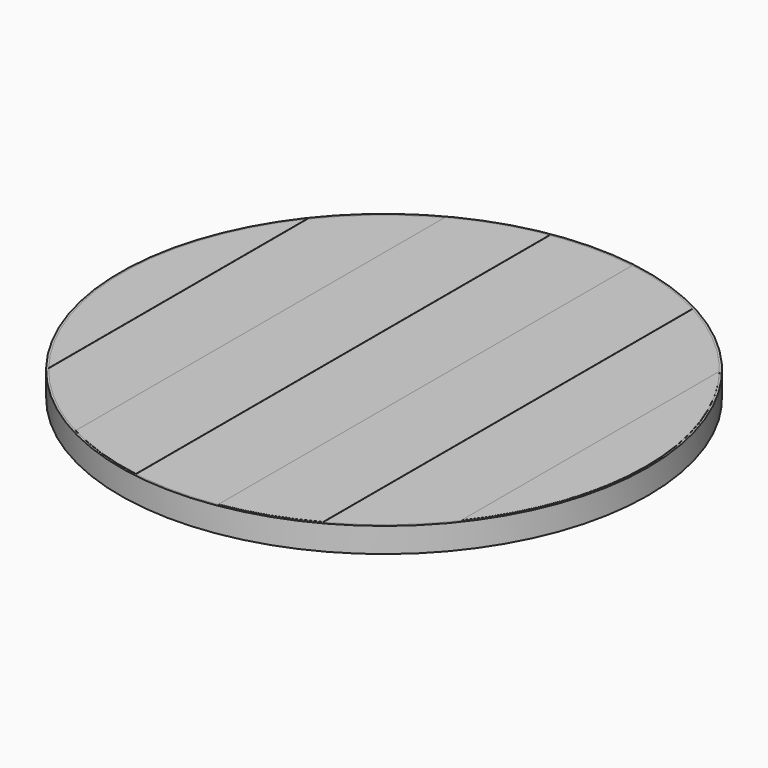
from build123d import *

# Parameters (mm, degrees)
F0_R     = 403.225
F1_DEPTH = 38.1
F0_R_2   = 406.4
F2_DEPTH = 38.1
F4_DEPTH = 0.3175


with BuildPart() as f1:
    # F0 (on Top) → F1 (new body)
    with BuildSketch(Plane.XY):
        Circle(F0_R)
    extrude(amount=F1_DEPTH)


with BuildPart() as f2:
    # F0 (on Top) → F2 (new body)
    with BuildSketch(Plane.XY):
        Circle(F0_R_2)
        Circle(F0_R, mode=Mode.SUBTRACT)
    extrude(amount=F2_DEPTH)


with BuildPart() as f4:
    # F3 (on face) → F4 (new body)
    with BuildSketch(Plane.XY.offset(38.1)):
        with BuildLine():
            ThreePointArc((-317.5, 248.564178), (-403.225, 0), (-317.5, -248.564178))
            Line((-317.5, -248.564178), (-317.5, 248.564178))
        make_face()
        with BuildLine():
            ThreePointArc((-190.5, -355.387325), (-128.790894, -382.10379), (-63.5, -398.193609))
            Line((-63.5, -398.193609), (-63.5, 398.193609))
            ThreePointArc((-63.5, 398.193609), (-128.790894, 382.10379), (-190.5, 355.387325))
            Line((-190.5, 355.387325), (-190.5, -355.387325))
        make_face()
        with BuildLine():
            Line((63.5, 398.193609), (63.5, -398.193609))
            ThreePointArc((63.5, -398.193609), (128.790894, -382.10379), (190.5, -355.387325))
            Line((190.5, -355.387325), (190.5, 355.387325))
            ThreePointArc((190.5, 355.387325), (128.790894, 382.10379), (63.5, 398.193609))
        make_face()
        with BuildLine():
            Line((317.5, 248.564178), (317.5, -248.564178))
            ThreePointArc((317.5, -248.564178), (381.191775, -131.465705), (403.225, 0))
            ThreePointArc((403.225, 0), (381.191775, 131.465705), (317.5, 248.564178))
        make_face()
    extrude(amount=F4_DEPTH)


solid = Compound([f1.part, f2.part, f4.part])
